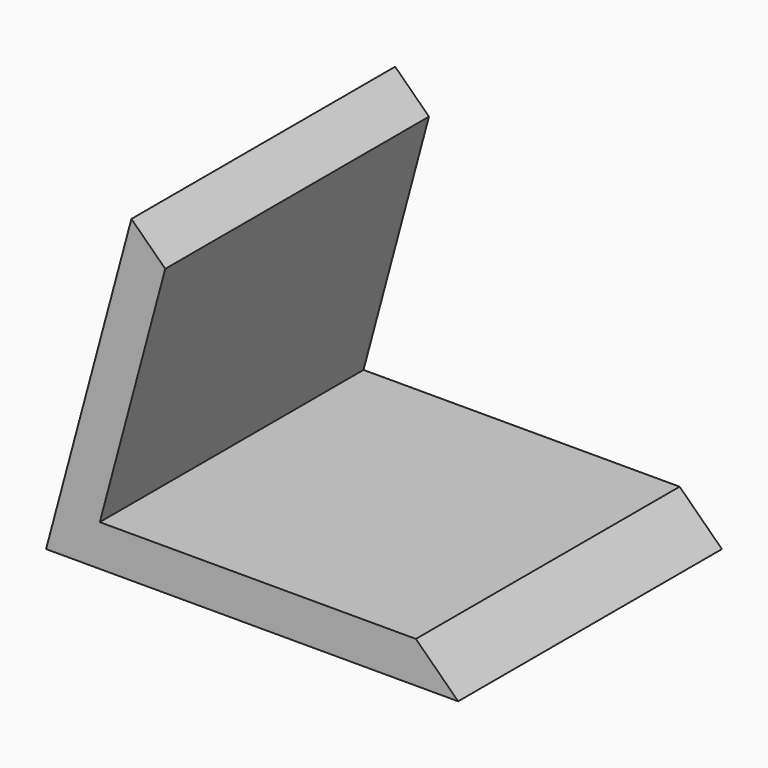
from build123d import *

# Parameters (mm, degrees)
F1_DEPTH = 40
F3_DEPTH = 53


with BuildPart() as f1:
    # F0 (on Front) → F1 (new body)
    with BuildSketch(Plane.XZ):
        Polygon((10.352762, 38.637033), (0, 0), (50, 0), align=None)
    extrude(amount=F1_DEPTH)

    # F2 (on face) → F3 (cut)
    with BuildSketch(Plane.XZ.offset(40)):
        Polygon((44.86927, 5), (14.457346, 34.637033), (6.516127, 5), align=None)
    extrude(amount=-F3_DEPTH, mode=Mode.SUBTRACT)


solid = f1.part
